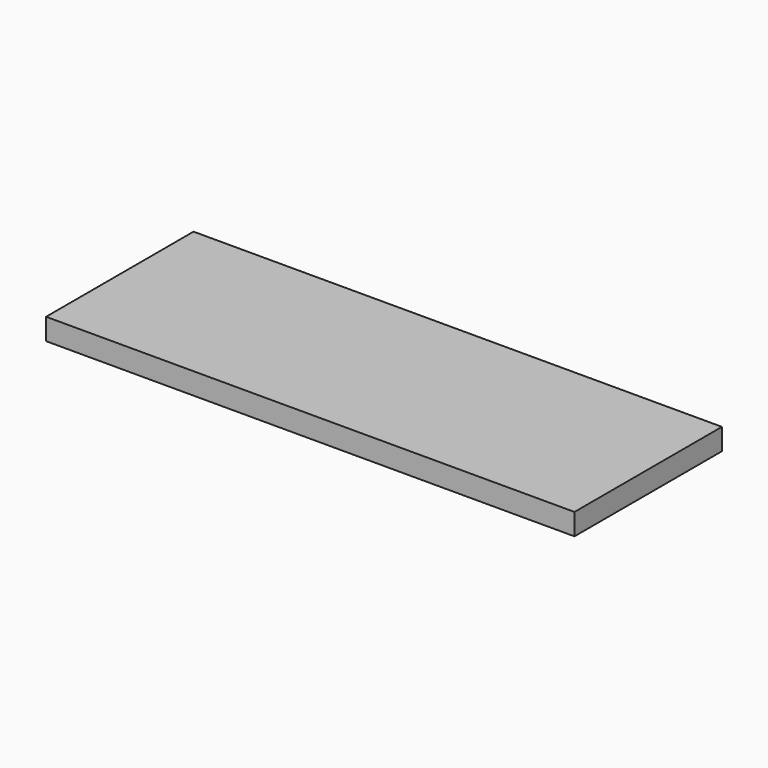
from build123d import *

# Parameters (mm, degrees)
SKETCH_W  = 300
SKETCH_H  = 35
PAD_DEPTH = 860


with BuildPart() as part:
    # Sketch → Pad (new body)
    with BuildSketch(Plane.YZ):
        with Locations((-150, 17.5)):
            Rectangle(SKETCH_W, SKETCH_H)
    extrude(amount=PAD_DEPTH)


solid = part.part
